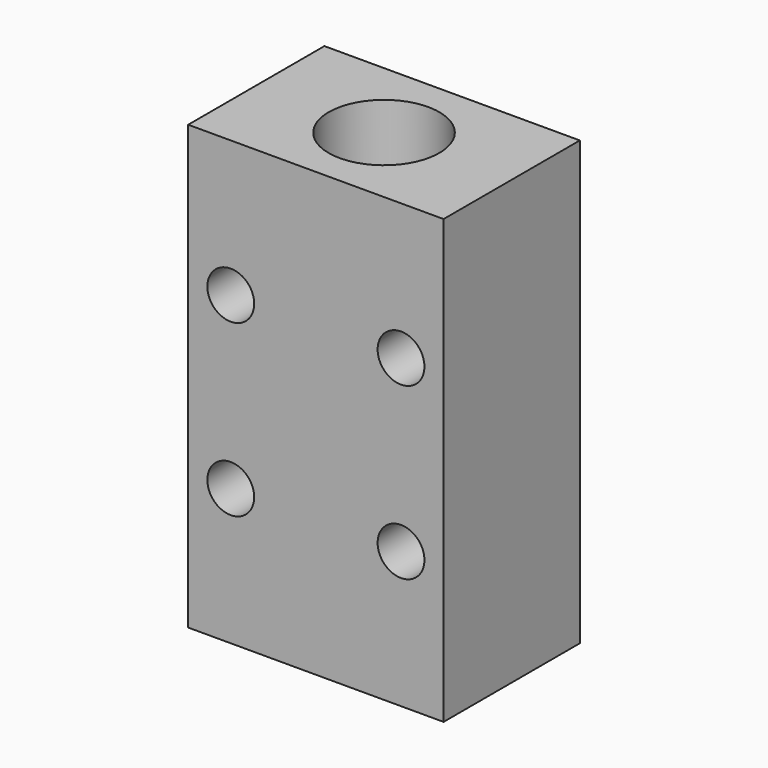
from build123d import *

# Parameters (mm, degrees)
F0_W     = 60
F0_H     = 104
F1_DEPTH = 40
F3_D     = 26
F3_DEPTH = 104
F3_TIP   = 7.8111880474
F5_D     = 11
F5_DEPTH = 104
F5_TIP   = 3.3047334047


with BuildPart() as f1:
    # F0 (on Front) → F1 (new body)
    with BuildSketch(Plane.XZ):
        Rectangle(F0_W, F0_H)
    extrude(amount=F1_DEPTH)

    # F3
    with Locations(Plane.XY.offset(52)):
        with Locations((0, -20)):
            Hole(F3_D / 2, depth=F3_DEPTH)
            with Locations((0, 0, -(F3_DEPTH + F3_TIP / 2))):  # 118° drill point
                Cone(0, F3_D / 2, F3_TIP, mode=Mode.SUBTRACT)

    # F5
    with Locations(Plane.XZ.offset(40)):
        with Locations((-20, 20), (-20, -20), (20, -20), (20, 20)):
            Hole(F5_D / 2, depth=F5_DEPTH)
            with Locations((0, 0, -(F5_DEPTH + F5_TIP / 2))):  # 118° drill point
                Cone(0, F5_D / 2, F5_TIP, mode=Mode.SUBTRACT)


solid = f1.part
